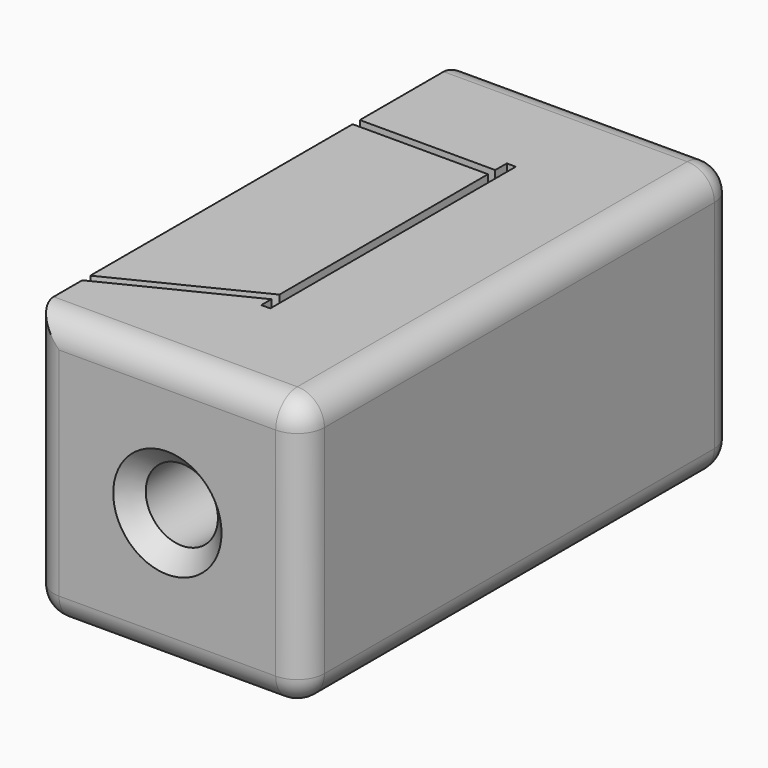
from build123d import *

# Parameters (mm, degrees)
SKETCH027_W     = 15
SKETCH027_H     = 30
PAD008_DEPTH    = 15
SKETCH028_R     = 2
POCKET019_DEPTH = 29
SKETCH029_W     = 0.5
SKETCH029_H     = 17
POCKET020_DEPTH = 10
SKETCH030_W     = 7.783355
SKETCH030_H     = 0.5
POCKET021_DEPTH = 12
FILLET010_R     = 1.5
CHAMFER005_SIZE = 1


with BuildPart() as part:
    # Sketch027 → Pad008 (new body)
    with BuildSketch(Plane.XY):
        Rectangle(SKETCH027_W, SKETCH027_H)
    extrude(amount=PAD008_DEPTH)

    # Sketch028 (on Face3 of Pad008) → Pocket019 (cut)
    with BuildSketch(Plane.XZ.offset(15)):
        with Locations((0, 7.5)):
            Circle(SKETCH028_R)
    extrude(amount=-POCKET019_DEPTH, mode=Mode.SUBTRACT)

    # Sketch029 (on Face5 of Pocket019) → Pocket020 (cut)
    with BuildSketch(Plane.XY.offset(15)):
        with Locations((0.25, 0)):
            Rectangle(SKETCH029_W, SKETCH029_H)
    extrude(amount=-POCKET020_DEPTH, mode=Mode.SUBTRACT)

    # Sketch030 (on Face5 of Pocket020) → Pocket021 (cut)
    with BuildSketch(Plane.XY.offset(15)):
        Polygon((0.095277, -7.753875), (-7.818323, -11.679128), (-7.818323, -11.122255), (0.095277, -7.197002), align=None)
        with Locations((-3.7964, 7.45)):
            Rectangle(SKETCH030_W, SKETCH030_H)
    extrude(amount=-POCKET021_DEPTH, mode=Mode.SUBTRACT)

    # Fillet010
    fillet010_edges = [part.edges().sort_by_distance(p)[0] for p in [
        (0, -15, 0),
        (-7.5, 0, 0),
        (7.5, 0, 0),
        (0, 15, 0),
        (7.5, 15, 7.5),
        (-7.5, 15, 7.5),
        (0, 15, 15),
        (7.5, 0, 15),
        (7.5, -15, 7.5),
        (0, -15, 15),
        (-7.5, -15, 7.5),
    ]]
    fillet(fillet010_edges, radius=FILLET010_R)

    # Chamfer005
    chamfer005_edges = [part.edges().sort_by_distance(p)[0] for p in [
        (-2, -15, 7.5),
    ]]
    chamfer(chamfer005_edges, length=CHAMFER005_SIZE)


solid = part.part
